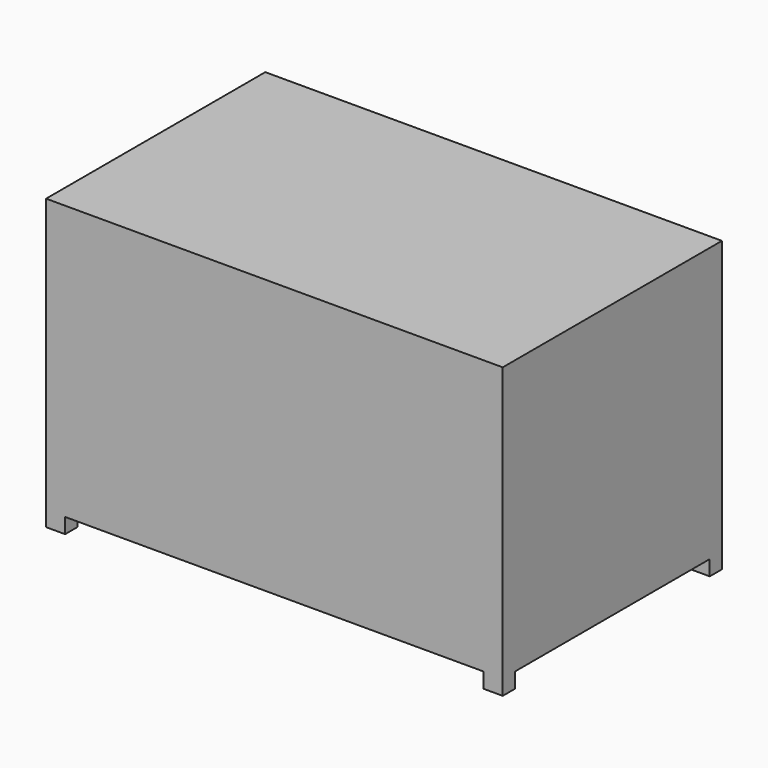
from build123d import *

# Parameters (mm, degrees)
F0_W     = 3048
F0_H     = 1828.8
F1_DEPTH = 914.4
F2_W     = 127
F2_H     = 101.6
F3_DEPTH = 101.6


with BuildPart() as f1:
    # F0 (on Top) → F1 (new body, symmetric)
    with BuildSketch(Plane.XY):
        Rectangle(F0_W, F0_H)
    extrude(amount=F1_DEPTH, both=True)

    # F2 (on face) → F3 (join)
    with BuildSketch(Plane(origin=(0, 0, -914.4), x_dir=(1, 0, 0), z_dir=(0, 0, -1))):
        with Locations((-1460.5, 863.6)):
            Rectangle(F2_W, F2_H)
        with Locations((-1460.5, -863.6)):
            Rectangle(F2_W, F2_H)
        with Locations((1460.5, -863.6)):
            Rectangle(F2_W, F2_H)
        with Locations((1460.5, 863.6)):
            Rectangle(F2_W, F2_H)
    extrude(amount=F3_DEPTH)


solid = f1.part
